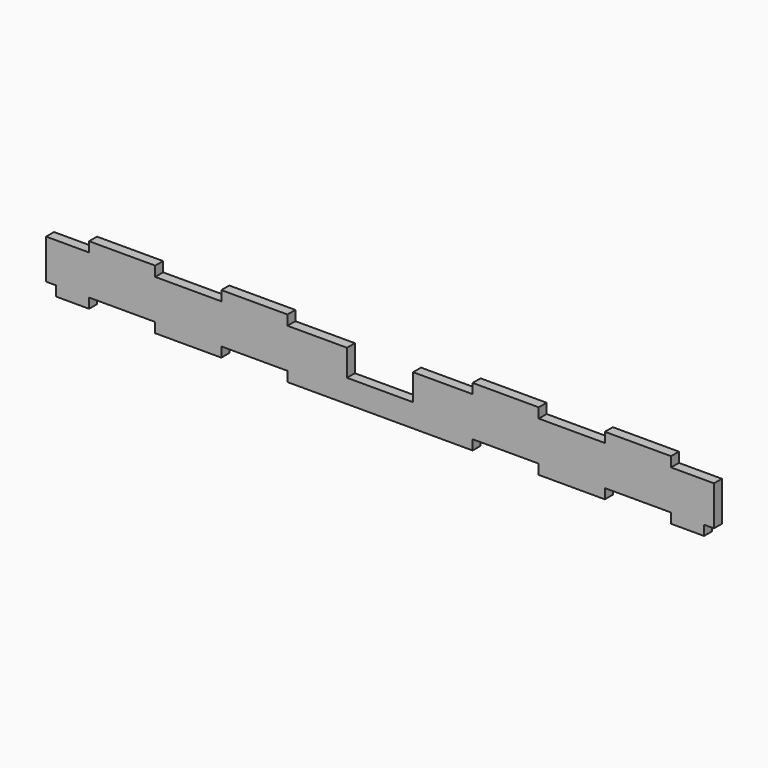
from build123d import *

# Parameters (mm, degrees)
F1_DEPTH = 1.5


with BuildPart() as f1:
    # F0 (on Front) → F1 (new body, symmetric)
    with BuildSketch(Plane.XZ):
        Polygon((-28.000247, -7.788848), (-28.000247, -10.788848), (0, -10.788848), (28.000247, -10.788848), (28.000247, -7.788848), (48.000247, -7.788848), (48.000247, -10.788848), (68.000247, -10.788848), (68.000247, -7.788848), (88.000247, -7.788848), (88.000247, -10.788848), (98.000247, -10.788848), (98.000247, -7.788848), (101.000247, -7.788848), (101.000247, 4.211152), (88.000247, 4.211152), (88.000247, 7.21119), (68.000247, 7.21119), (68.000247, 4.21119), (48.000247, 4.21119), (48.000247, 7.21119), (28.000247, 7.21119), (28.000247, 4.21119), (10, 4.21119), (10, -3.78881), (0, -3.78881), (-10, -3.78881), (-10, 4.21119), (-28.000247, 4.21119), (-28.000247, 7.21119), (-48.000247, 7.21119), (-48.000247, 4.21119), (-68.000247, 4.21119), (-68.000247, 7.21119), (-88.000247, 7.21119), (-88.000247, 4.211152), (-101.000247, 4.211152), (-101.000247, -7.788848), (-98.000247, -7.788848), (-98.000247, -10.788848), (-88.000247, -10.788848), (-88.000247, -7.788848), (-68.000247, -7.788848), (-68.000247, -10.788848), (-48.000247, -10.788848), (-48.000247, -7.788848), align=None)
        Polygon((-28.000247, -7.788848), (-28.000247, -10.788848), (0, -10.788848), (28.000247, -10.788848), (28.000247, -7.788848), (48.000247, -7.788848), (48.000247, -10.788848), (68.000247, -10.788848), (68.000247, -7.788848), (88.000247, -7.788848), (88.000247, -10.788848), (98.000247, -10.788848), (98.000247, -7.788848), (101.000247, -7.788848), (101.000247, 4.211152), (88.000247, 4.211152), (88.000247, 7.21119), (68.000247, 7.21119), (68.000247, 4.21119), (48.000247, 4.21119), (48.000247, 7.21119), (28.000247, 7.21119), (28.000247, 4.21119), (10, 4.21119), (10, -3.78881), (0, -3.78881), (-10, -3.78881), (-10, 4.21119), (-28.000247, 4.21119), (-28.000247, 7.21119), (-48.000247, 7.21119), (-48.000247, 4.21119), (-68.000247, 4.21119), (-68.000247, 7.21119), (-88.000247, 7.21119), (-88.000247, 4.211152), (-101.000247, 4.211152), (-101.000247, -7.788848), (-98.000247, -7.788848), (-98.000247, -10.788848), (-88.000247, -10.788848), (-88.000247, -7.788848), (-68.000247, -7.788848), (-68.000247, -10.788848), (-48.000247, -10.788848), (-48.000247, -7.788848), align=None)
    extrude(amount=F1_DEPTH, both=True)


solid = f1.part
